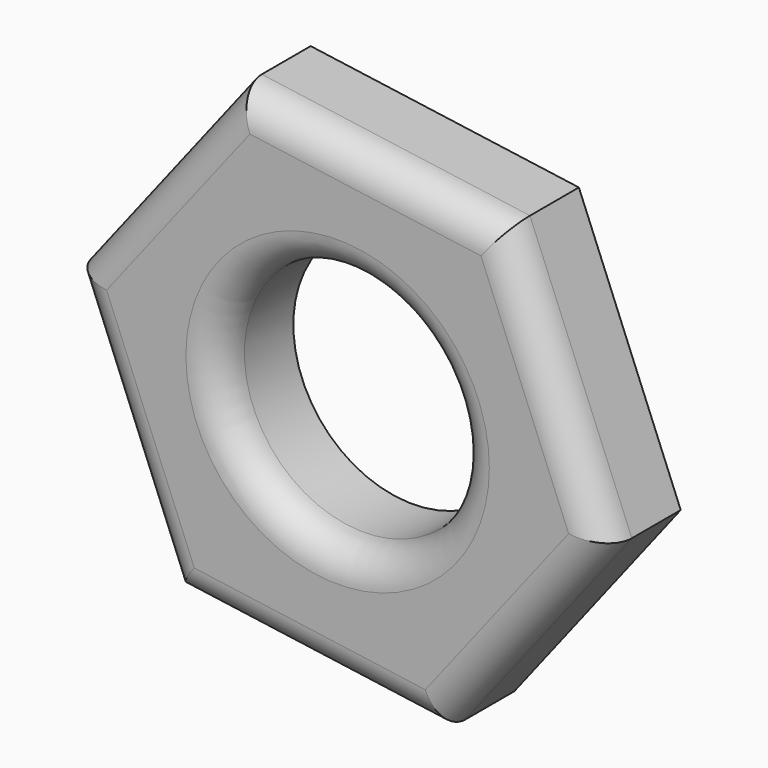
from build123d import *

# Parameters (mm, degrees)
F0_R     = 18.333131
F1_DEPTH = 14.4
F2_R     = 5


with BuildPart() as f1:
    # F0 (on Front) → F1 (new body)
    with BuildSketch(Plane.XZ):
        Polygon((-41.240638, 5.726179), (-25.579336, -32.85235), (15.661302, -38.57853), (41.240638, -5.726179), (25.579336, 32.85235), (-15.661302, 38.57853), align=None)
        Circle(F0_R, mode=Mode.SUBTRACT)
    extrude(amount=F1_DEPTH)

    # F2
    f2_edges = [f1.edges().sort_by_distance(p)[0] for p in [
        (-18.333131, -14.4, 0),
        (28.45097, -14.4, -22.152355),
        (33.409987, -14.4, 13.563085),
        (4.959017, -14.4, 35.71544),
        (-28.45097, -14.4, 22.152355),
        (-33.409987, -14.4, -13.563085),
        (-4.959017, -14.4, -35.71544),
    ]]
    fillet(f2_edges, radius=F2_R)


solid = f1.part
